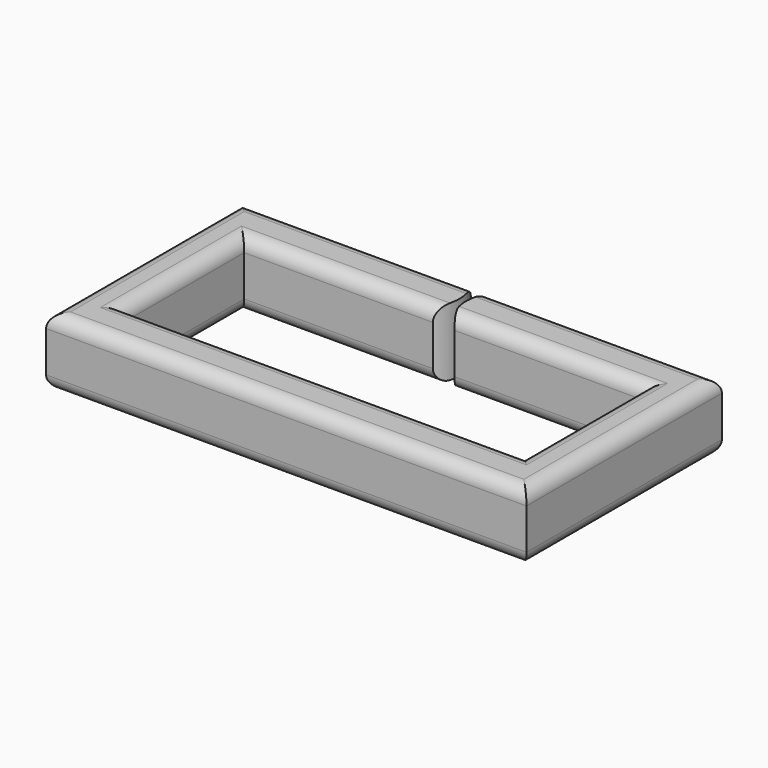
from build123d import *

# Parameters (mm, degrees)
F1_DEPTH = 6.35
F2_R     = 1.27


with BuildPart() as f1:
    # F0 (on Top) → F1 (new body)
    with BuildSketch(Plane.XY):
        Polygon((-22.479, -11.43), (22.479, -11.43), (22.479, 11.43), (1.016, 11.43), (1.016, 6.985), (18.669, 6.985), (18.669, -6.985), (-18.669, -6.985), (-18.669, 6.985), (-1.016, 6.985), (-1.016, 11.43), (-22.479, 11.43), align=None)
        with BuildLine():
            ThreePointArc((-1.016, 6.985), (-0.302004, 9.2075), (-1.016, 11.43))
            Line((-1.016, 11.43), (-1.016, 6.985))
        make_face()
        with BuildLine():
            Line((1.016, 6.985), (1.016, 11.43))
            ThreePointArc((1.016, 11.43), (0.300607, 9.2075), (1.016, 6.985))
        make_face()
    extrude(amount=F1_DEPTH)

    # F2
    f2_edges = [f1.edges().sort_by_distance(p)[0] for p in [
        (-9.8425, 6.985, 6.35),
        (9.8425, 6.985, 6.35),
        (18.669, 0, 6.35),
        (0, -6.985, 6.35),
        (-18.669, 0, 6.35),
        (0, -6.985, 0),
        (18.669, 0, 0),
        (9.8425, 6.985, 0),
        (-9.8425, 6.985, 0),
        (-18.669, 0, 0),
        (11.7475, 11.43, 6.35),
        (-11.7475, 11.43, 6.35),
        (-22.479, 0, 6.35),
        (0, -11.43, 6.35),
        (22.479, 0, 6.35),
        (22.479, 0, 0),
        (0, -11.43, 0),
        (11.7475, 11.43, 0),
        (-11.7475, 11.43, 0),
        (-22.479, 0, 0),
    ]]
    fillet(f2_edges, radius=F2_R)


solid = f1.part
